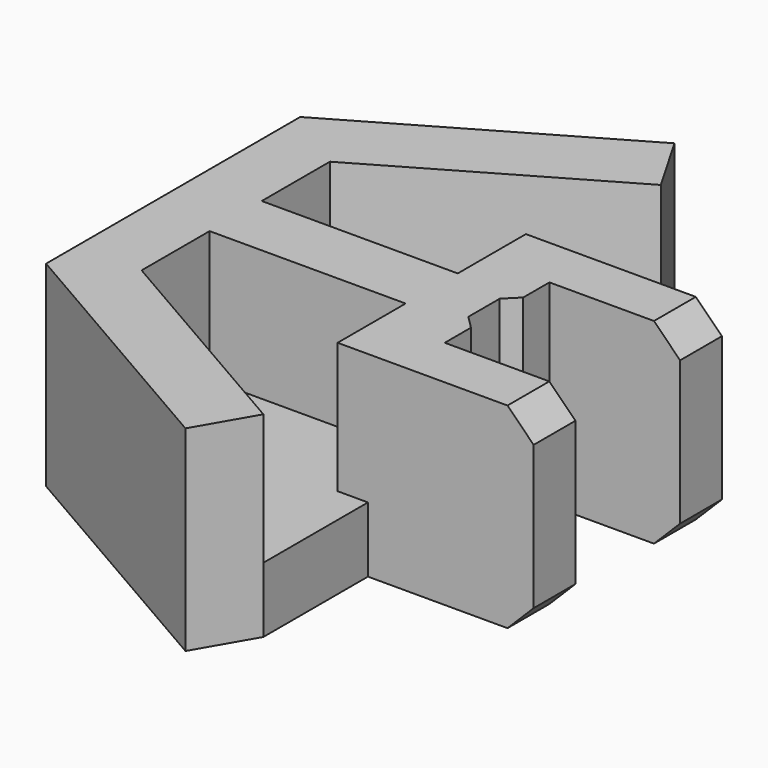
from build123d import *

# Parameters (mm, degrees)
F1_DEPTH  = 38.1
F2_SIZE   = 5.08
F4_DEPTH  = 38.1
F6_DEPTH  = 12.7
F7_W      = 38.1
F7_H      = 16.5227
F7_H_2    = 16.557139
F8_DEPTH  = 25.4
F10_DEPTH = 38.101


with BuildPart() as f1:
    # F0 (on Top) → F1 (new body)
    with BuildSketch(Plane.XY):
        Polygon((0, 0), (0, 25.4254), (25.4, 25.4254), (25.4, 35.5854), (-50.8, 35.5854), (-50.8, -10.16), (25.4, -10.16), (25.4, 0), align=None)
    extrude(amount=F1_DEPTH)

    # F2
    f2_edges = [f1.edges().sort_by_distance(p)[0] for p in [
        (25.4, -5.08, 0),
        (25.4, 30.5054, 0),
        (25.4, -5.08, 38.1),
        (25.4, 30.5054, 38.1),
    ]]
    chamfer(f2_edges, length=F2_SIZE)

    # F3 (on face) → F4 (join)
    with BuildSketch(Plane(origin=(0, 0, 0), x_dir=(1, 0, 0), z_dir=(0, 0, -1))):
        Polygon((-50.8, -35.5854), (-50.8, 10.16), (-6.805909, 35.56), (-13.155909, 46.558523), (-63.5, 17.492348), (-63.5, 10.16), (-63.5, -35.5854), (-63.5, -44.245531), (-13.730856, -72.97976), (-6.805909, -60.9854), align=None)
    extrude(amount=-F4_DEPTH)

    # F5 (on face) → F6 (join)
    with BuildSketch(Plane(origin=(0, 0, 0), x_dir=(1, 0, 0), z_dir=(0, 0, -1))):
        Polygon((-6.805909, -60.9854), (-6.805909, 35.56), (-50.8, 10.16), (-50.8, -35.5854), align=None)
    extrude(amount=-F6_DEPTH)

    # F7 (on face) → F8 (cut, through all)
    with BuildSketch(Plane.XY.offset(38.1)):
        with Locations((-31.75, -1.89865)):
            Rectangle(F7_W, F7_H)
        with Locations((-31.75, 27.306831)):
            Rectangle(F7_W, F7_H_2)
    extrude(amount=-F8_DEPTH, mode=Mode.SUBTRACT)

    # F9 (on face) → F10 (cut, through all)
    with BuildSketch(Plane.XY.offset(38.1)):
        Polygon((-2.54, 16.5227), (-2.54, 8.9027), (0, 6.3627), (0, 19.0627), align=None)
    extrude(amount=-F10_DEPTH, mode=Mode.SUBTRACT)


solid = f1.part
